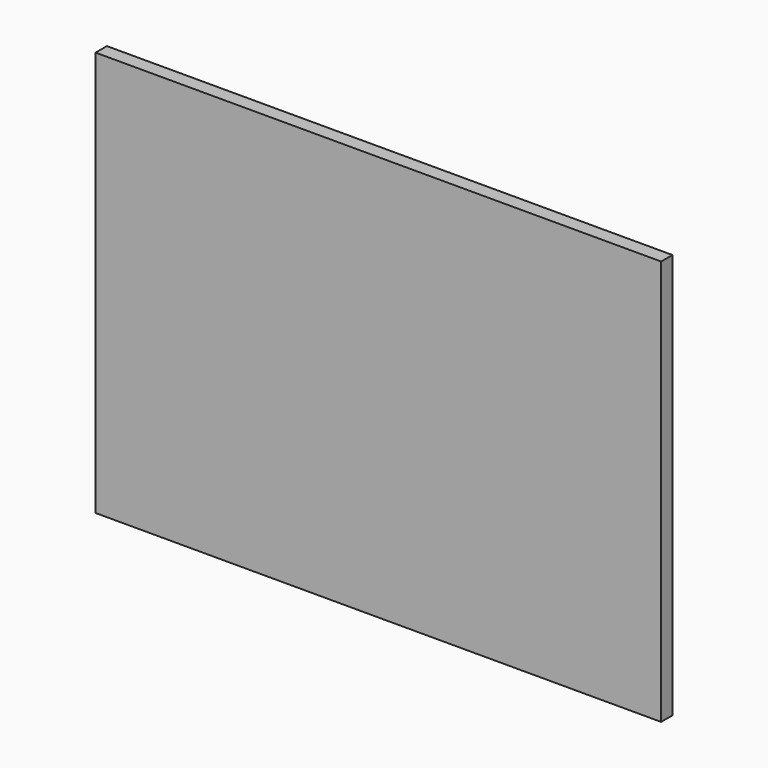
from build123d import *

# Parameters (mm, degrees)
SKETCH_W  = 600
SKETCH_H  = 430
PAD_DEPTH = 15


with BuildPart() as part:
    # Sketch → Pad (new body)
    with BuildSketch(Plane.XZ):
        with Locations((300, 215)):
            Rectangle(SKETCH_W, SKETCH_H)
    extrude(amount=PAD_DEPTH)


solid = part.part
